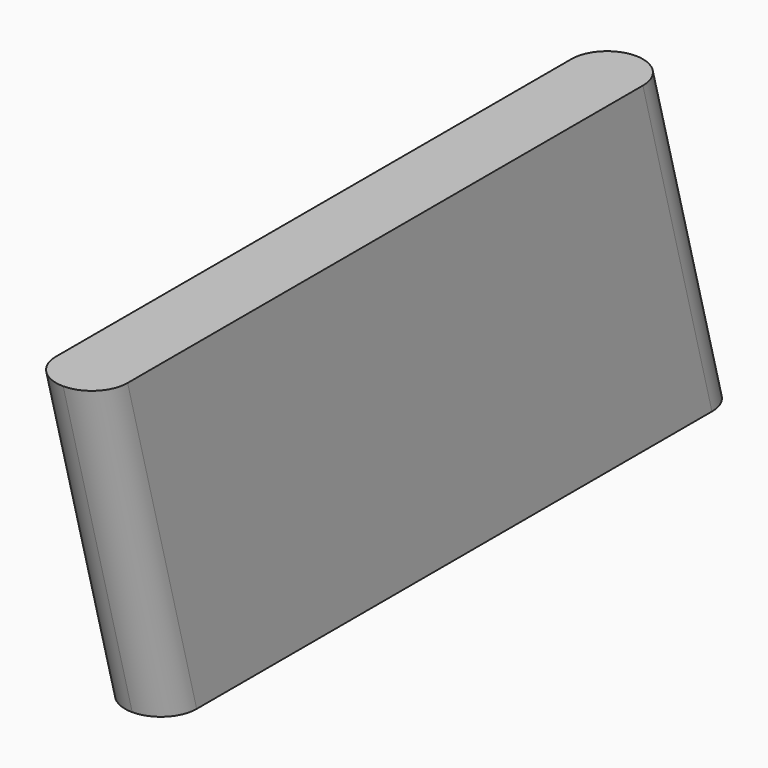
from build123d import *


with BuildPart() as f2:
    # F2: sweep along a path in F1
    with BuildLine(Plane.YZ) as f2_path:
        Line((0, 0), (-122.506371, 457.2))
    # F0 (on Top) → F2 (sweep)
    with BuildSketch(Plane.XY):
        with BuildLine():
            ThreePointArc((42.44258, 992.279678), (6.521556, 977.400702), (-8.35742, 941.479678))
            Line((-8.35742, 941.479678), (-8.35742, 27.079678))
            ThreePointArc((-8.35742, 27.079678), (6.521556, -8.841347), (42.44258, -23.720322))
            ThreePointArc((42.44258, -23.720322), (78.363605, -8.841347), (93.24258, 27.079678))
            Line((93.24258, 27.079678), (93.24258, 941.479678))
            ThreePointArc((93.24258, 941.479678), (78.363605, 977.400702), (42.44258, 992.279678))
        make_face()
    sweep(path=f2_path.line)


solid = f2.part
